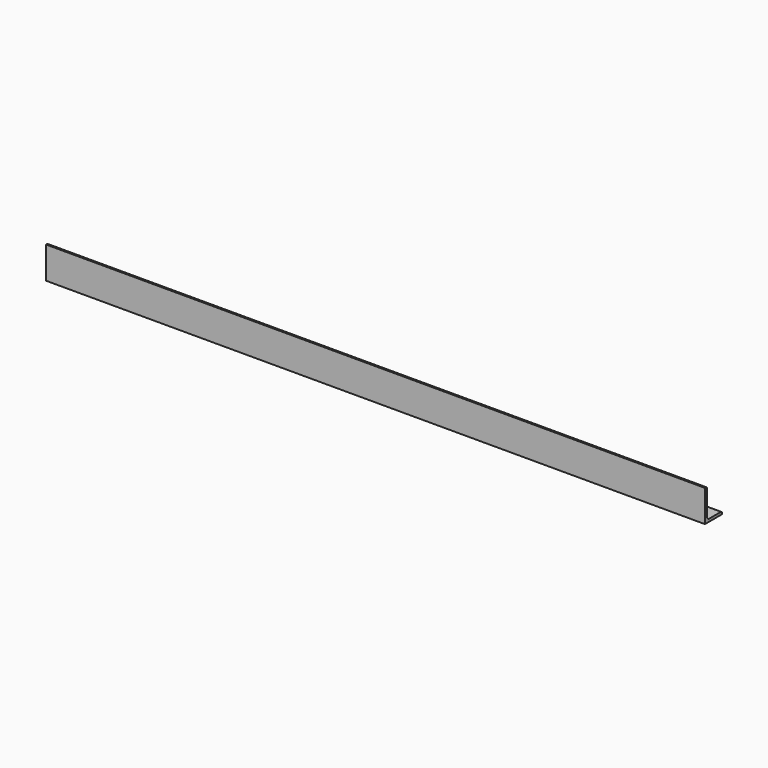
from build123d import *

# Parameters (mm, degrees)
F1_DEPTH = 1240


with BuildPart() as f1:
    # F0 (on Right) → F1 (new body, symmetric)
    with BuildSketch(Plane.YZ):
        with BuildLine():
            Line((0, 120), (0, 0))
            Line((0, 0), (80, 0))
            Line((80, 0), (80, 4.5))
            ThreePointArc((80, 4.5), (78.389087, 8.389087), (74.5, 10))
            Line((74.5, 10), (21, 10))
            ThreePointArc((21, 10), (13.221825, 13.221825), (10, 21))
            Line((10, 21), (10, 114.5))
            ThreePointArc((10, 114.5), (8.389087, 118.389087), (4.5, 120))
            Line((4.5, 120), (0, 120))
        make_face()
    extrude(amount=F1_DEPTH, both=True)


solid = f1.part
